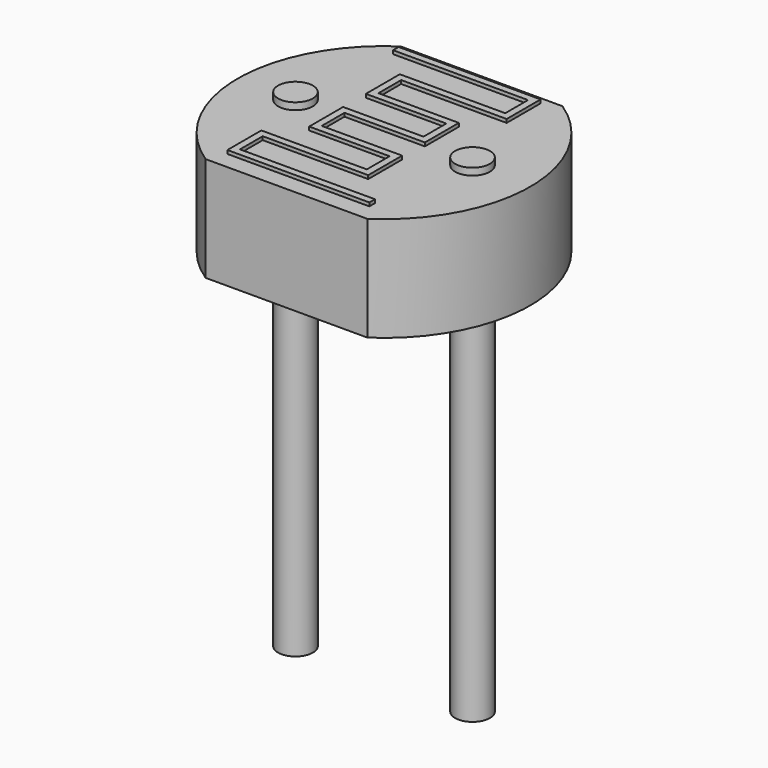
from build123d import *

# Parameters (mm, degrees)
PAD001_DEPTH   = 1.5
SKETCH_R       = 0.25
PAD_DEPTH      = 4
PAD_DEPTH_BACK = 3
PAD002_DEPTH   = 0.05


with BuildPart() as pad001:
    # Sketch001 → Pad001 (new body)
    with BuildSketch(Plane.XY.offset(3.9)):
        with BuildLine():
            ThreePointArc((0.109181, 1.75), (-0.83, 0), (0.109181, -1.75))
            Line((0.109181, -1.75), (2.430819, -1.75))
            ThreePointArc((2.430819, -1.75), (3.37, 0), (2.430819, 1.75))
            Line((0.109181, 1.75), (2.430819, 1.75))
        make_face()
    extrude(amount=-PAD001_DEPTH)


with BuildPart() as pad:
    # Sketch → Pad (new body, two sides)
    with BuildSketch(Plane.XY) as pad_sk:
        Circle(SKETCH_R)
        with Locations((2.54, 0)):
            Circle(SKETCH_R)
    extrude(amount=PAD_DEPTH)
    extrude(pad_sk.sketch, amount=-PAD_DEPTH_BACK)


with BuildPart() as obj1:
    # Sketch002 → Pad002 (new body)
    with BuildSketch(Plane.XY.offset(3.95)):
        Polygon((0.22, 1.475), (2.1565, 1.475), (2.1565, 1.066667), (0.643333, 1.066667), (0.643333, 0.966667), (0.643333, 0.458333), (0.743333, 0.458333), (1.796667, 0.458333), (1.796667, 0.05), (0.643333, 0.05), (0.643333, -0.05), (0.643333, -0.558333), (0.743333, -0.558333), (1.796667, -0.558333), (1.796667, -0.966667), (0.2835, -0.966667), (0.2835, -1.066667), (0.2835, -1.575), (0.3835, -1.575), (2.32, -1.575), (2.32, -1.475), (0.3835, -1.475), (0.3835, -1.066667), (1.796667, -1.066667), (1.896667, -1.066667), (1.896667, -0.558333), (1.896667, -0.458333), (0.743333, -0.458333), (0.743333, -0.05), (1.796667, -0.05), (1.896667, -0.05), (1.896667, 0.458333), (1.896667, 0.558333), (0.743333, 0.558333), (0.743333, 0.966667), (2.1565, 0.966667), (2.2565, 0.966667), (2.2565, 1.475), (2.2565, 1.575), (0.22, 1.575), align=None)
    extrude(amount=PAD002_DEPTH)

    add(pad001.part)
    add(pad.part)


solid = obj1.part
